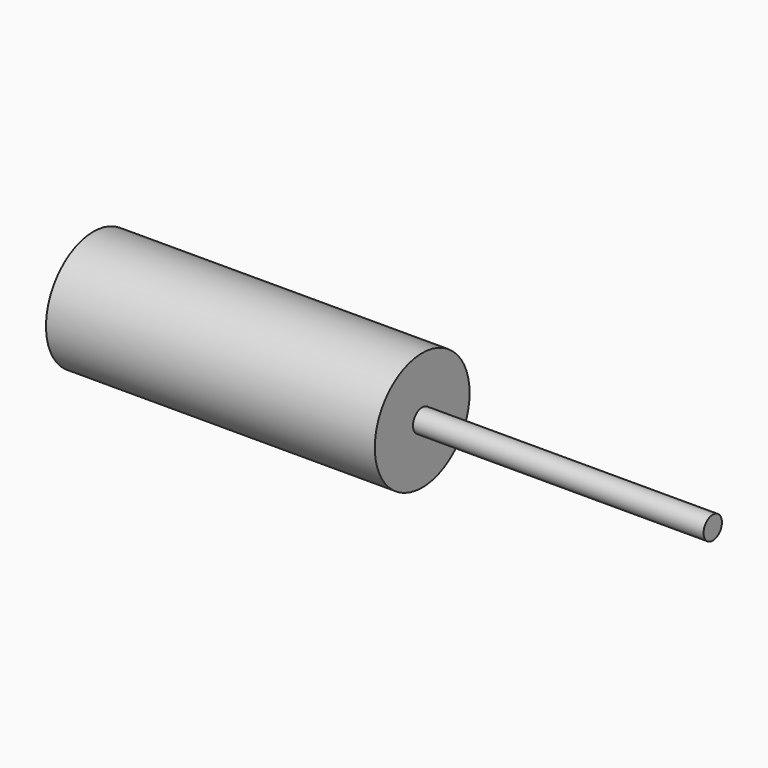
from build123d import *

# Parameters (mm, degrees)
F0_R     = 7.75
F0_R_2   = 1.5
F1_DEPTH = 43
F2_R     = 1.5
F3_DEPTH = 81


with BuildPart() as f1:
    # F0 (on Right) → F1 (new body)
    with BuildSketch(Plane.YZ):
        Circle(F0_R)
        Circle(F0_R_2, mode=Mode.SUBTRACT)
    extrude(amount=F1_DEPTH)

    # F2 (on Right) → F3 (join)
    with BuildSketch(Plane.YZ):
        Circle(F2_R)
    extrude(amount=F3_DEPTH)


solid = f1.part
